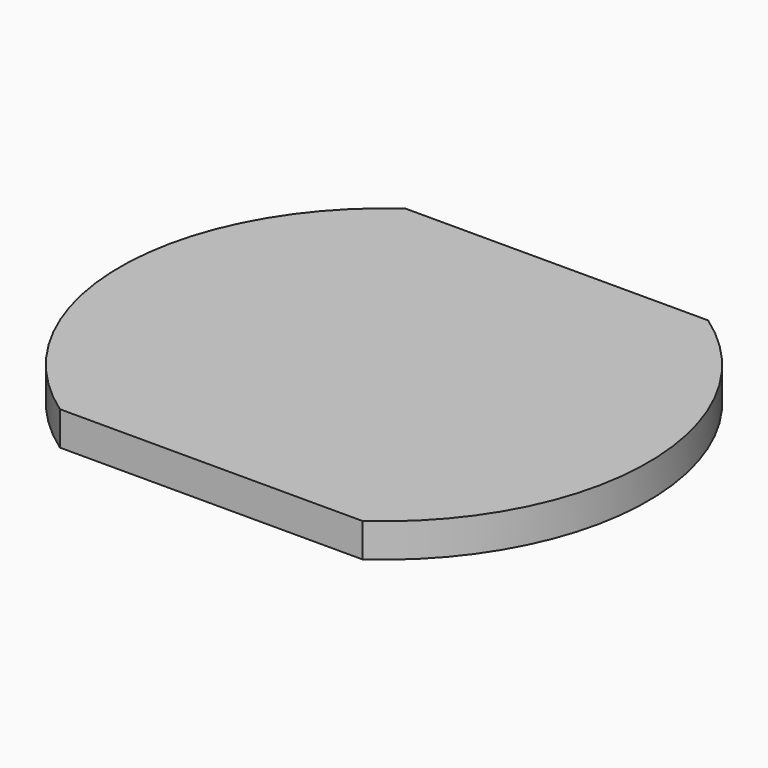
from build123d import *

# Parameters (mm, degrees)
PAD_1_DEPTH = 5


with BuildPart() as part:
    # Sketch_1 → Pad_1 (new body)
    with BuildSketch(Plane.XY):
        with BuildLine():
            ThreePointArc((22.43194, -39.01035), (39.04771, -6.945061), (22.262989, 25.032114))
            Line((22.262989, 25.032114), (-22.432711, 25.032114))
            ThreePointArc((-22.432711, 25.032114), (-39.047601, -7.033375), (-22.262989, -39.01035))
            Line((-22.262989, -39.01035), (22.43194, -39.01035))
        make_face()
    extrude(amount=PAD_1_DEPTH)


solid = part.part
